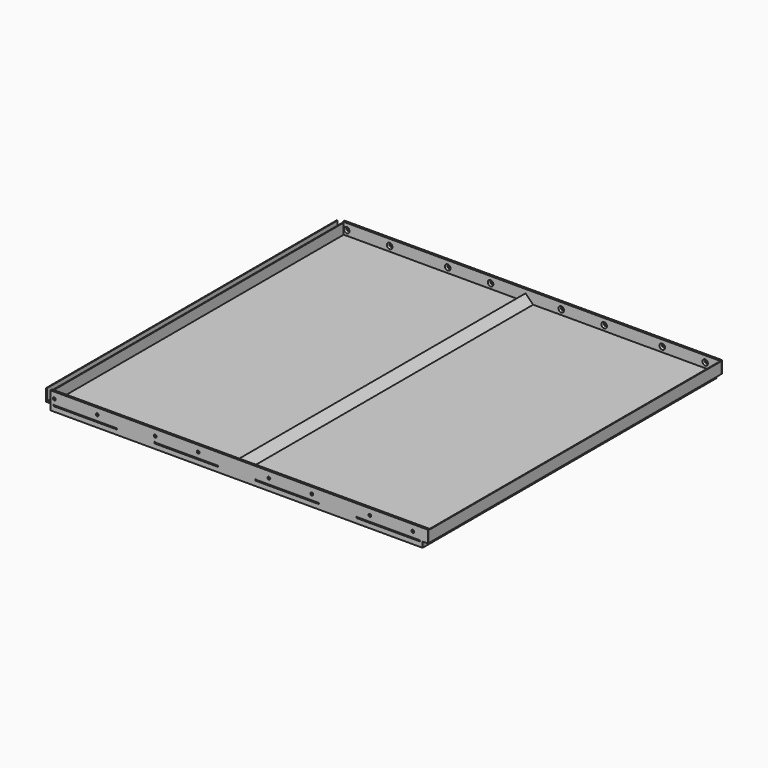
from build123d import *

# Parameters (mm, degrees)
F1_DEPTH       = 1440
F2_DEPTH       = 1440
F3_W           = 250
F3_H           = 7
F3_W_2         = 60
F3_W_3         = 190
F3_W_4         = 10
F4_DEPTH       = 3
F5_W           = 250.5
F5_H           = 6.5
F6_DEPTH       = 8
F9_D           = 11
F9_CSINK_D     = 22
F9_CSINK_ANGLE = 90


with BuildPart() as f1:
    # F0 (on Front) → F1 (new body)
    with BuildSketch(Plane.XZ):
        Polygon((-1400.4856245518, 88.2625505924), (-1403.4856245518, 88.2625505924), (-1403.4856245518, 40.2625505924), (91.5143754482, 40.2625505924), (91.5143754482, 21.2625505924), (94.5143754482, 21.2625505924), (94.5143754482, 43.2625505924), (-627.2282652389, 43.2625505924), (-684.7429838647, 43.2625505924), (-1379.4856245518, 43.2625505924), (-1400.4856245518, 43.2625505924), align=None)
    extrude(amount=-F1_DEPTH)


with BuildPart() as f2:
    # F0 (on Front) → F2 (new body)
    with BuildSketch(Plane.XZ):
        Polygon((-1379.4856245518, 88.2625505924), (-1379.4856245518, 43.2625505924), (-684.7429838647, 43.2625505924), (-655.9856245518, 72.0199099053), (-627.2282652389, 43.2625505924), (94.5143754482, 43.2625505924), (115.5143754482, 43.2625505924), (115.5143754482, 46.2625505924), (115.5143754482, 88.2625505924), (112.5143754482, 88.2625505924), (112.5143754482, 46.2625505924), (-625.9856245518, 46.2625505924), (-655.9856245518, 76.2625505924), (-685.9856245518, 46.2625505924), (-1376.4856245518, 46.2625505924), (-1376.4856245518, 88.2625505924), align=None)
    extrude(amount=-F2_DEPTH)

    # F3 (on face) → F4 (join)
    with BuildSketch(Plane.XY.offset(46.2625505924)):
        with Locations((-1241.4856245518, -3.5)):
            Rectangle(F3_W, F3_H)
        with Locations((-841.4856245518, -3.5)):
            Rectangle(F3_W, F3_H)
        with Locations((-441.4856245518, -3.5)):
            Rectangle(F3_W, F3_H)
        with Locations((-41.4856245518, -3.5)):
            Rectangle(F3_W, F3_H)
        with Locations((-841.4856245518, 1443.5)):
            Rectangle(F3_W, F3_H)
        with Locations((-1241.4856245518, 1443.5)):
            Rectangle(F3_W, F3_H)
        with Locations((-136.4856245518, 1443.5)):
            Rectangle(F3_W_2, F3_H)
        with Locations((-11.4856245518, 1443.5)):
            Rectangle(F3_W_3, F3_H)
        with Locations((88.5143754482, 1443.5)):
            Rectangle(F3_W_4, F3_H)
        with Locations((-441.4856245518, 1443.5)):
            Rectangle(F3_W, F3_H)
    extrude(amount=-F4_DEPTH)


with BuildPart() as f6:
    # F5 (on face) → F6 (new body)
    with BuildSketch(Plane.XZ):
        Polygon((94.5143754482, 43.2625505924), (115.5143754482, 43.2625505924), (115.5143754482, 91.2625505924), (-1379.4856245518, 91.2625505924), (-1379.4856245518, 21.2625505924), (94.5143754482, 21.2625505924), align=None)
        with Locations((-1241.4856245518, 43.2625505924)):
            Rectangle(F5_W, F5_H, mode=Mode.SUBTRACT)
        with Locations((-841.4856245518, 43.2625505924)):
            Rectangle(F5_W, F5_H, mode=Mode.SUBTRACT)
        with Locations((-441.4856245518, 43.2625505924)):
            Rectangle(F5_W, F5_H, mode=Mode.SUBTRACT)
        with Locations((-41.4856245518, 43.2625505924)):
            Rectangle(F5_W, F5_H, mode=Mode.SUBTRACT)
    extrude(amount=F6_DEPTH)

    # F9 (through all)
    with Locations(Plane(origin=(0, 0, 0), x_dir=(-1, 0, 0), z_dir=(0, 1, 0))):
        with Locations((1364.4856245518, 66.2625505924), (1194.4856245518, 66.2625505924), (964.4856245518, 66.2625505924), (794.4856245518, 66.2625505924), (514.4856245518, 66.2625505924), (344.4856245518, 66.2625505924), (114.4856245518, 66.2625505924), (-55.5143754482, 66.2625505924)):
            CounterSinkHole(F9_D / 2, F9_CSINK_D / 2, counter_sink_angle=F9_CSINK_ANGLE)


with BuildPart() as f10_1:
    # F10: instance of F6
    add(f6.part.mirror(Plane(origin=(0, 720, 0), x_dir=(-1, 0, 0), z_dir=(0, 1, 0))))


solid = Compound([f1.part, f2.part, f6.part, f10_1.part])
